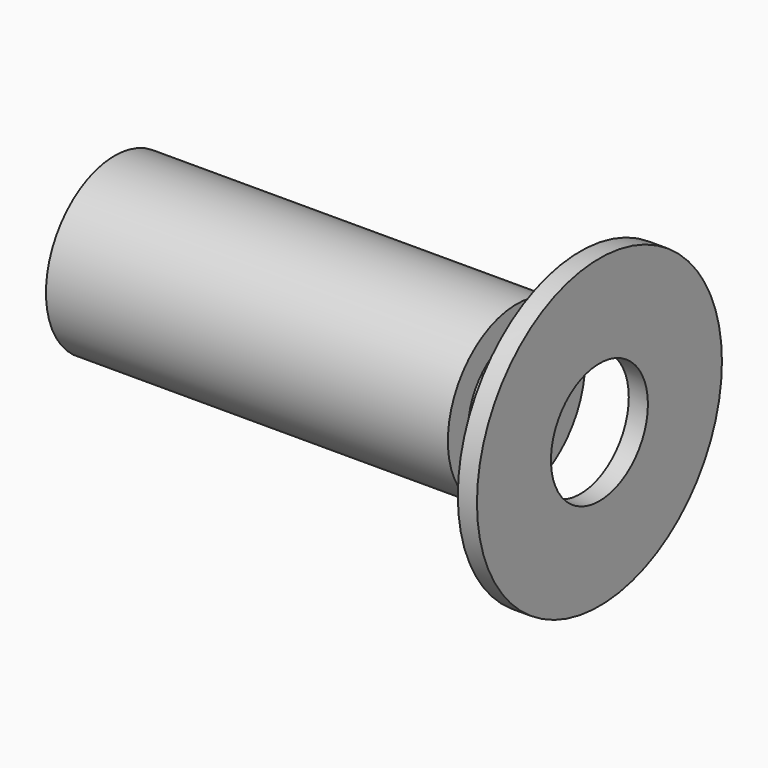
from build123d import *

# Parameters (mm, degrees)
F0_R     = 24
F0_R_2   = 9.5
F1_DEPTH = 3
F3_R     = 13.45
F3_R_2   = 9.5
F4_DEPTH = 63


with BuildPart() as f1:
    # F0 (on Right) → F1 (new body)
    with BuildSketch(Plane.YZ):
        Circle(F0_R)
        Circle(F0_R_2, mode=Mode.SUBTRACT)
    extrude(amount=F1_DEPTH)


with BuildPart() as f4:
    # F3 (on offset) → F4 (new body)
    with BuildSketch(Plane(origin=(-10, 0, 0), x_dir=(0, 1, 0), z_dir=(-1, 0, 0))):
        Circle(F3_R)
        Circle(F3_R_2, mode=Mode.SUBTRACT)
    extrude(amount=F4_DEPTH)


solid = Compound([f1.part, f4.part])
